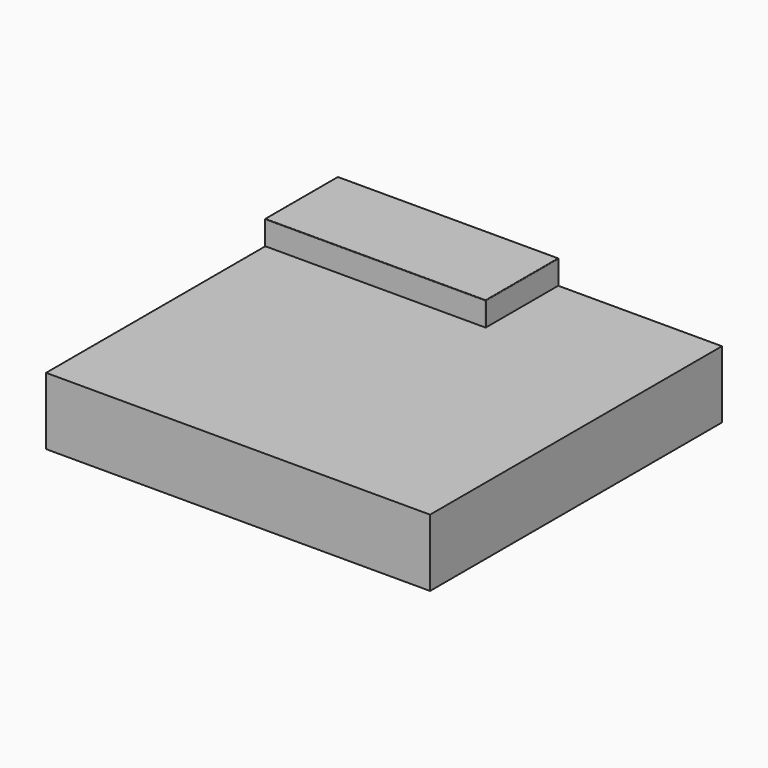
from build123d import *

# Parameters (mm, degrees)
F0_W     = 1168.4
F0_H     = 482.6
F1_DEPTH = 241.3
F2_R     = 2.54
F3_W     = 2032
F3_H     = 1930.4
F4_DEPTH = 355.6


with BuildPart() as f1:
    # F0 (on Front) → F1 (new body, symmetric)
    with BuildSketch(Plane.XZ):
        with Locations((0, 241.3)):
            Rectangle(F0_W, F0_H)
    extrude(amount=F1_DEPTH, both=True)

    # F2
    f2_edges = [f1.edges().sort_by_distance(p)[0] for p in [
        (0, -241.3, 482.6),
        (0, -241.3, 0),
        (0, 241.3, 482.6),
        (0, 241.3, 0),
        (584.2, 0, 0),
        (584.2, 241.3, 241.3),
        (584.2, 0, 482.6),
        (584.2, -241.3, 241.3),
        (-584.2, 241.3, 241.3),
        (-584.2, 0, 0),
        (-584.2, -241.3, 241.3),
        (-584.2, 0, 482.6),
    ]]
    fillet(f2_edges, radius=F2_R)


with BuildPart() as f4:
    # F3 (on Top) → F4 (new body)
    with BuildSketch(Plane.XY):
        with Locations((434.34, -726.44)):
            Rectangle(F3_W, F3_H)
    extrude(amount=F4_DEPTH)


solid = Compound([f1.part, f4.part])
